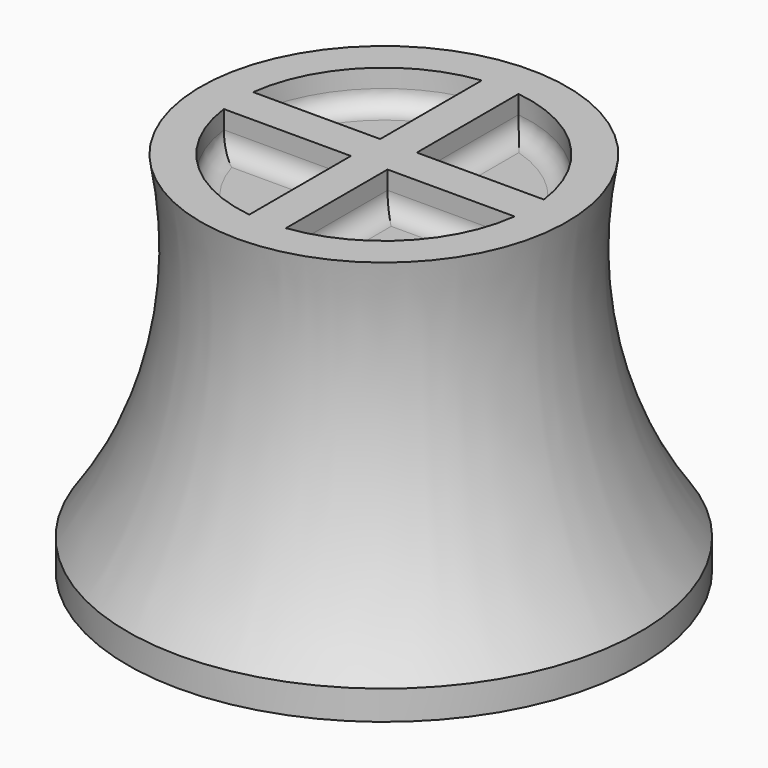
from build123d import *

# Parameters (mm, degrees)
F3_R     = 1.1
F4_DEPTH = 12
F6_DEPTH = 1.5
F7_R     = 0.75


with BuildPart() as f2:
    # F1 (on Right) → F2 (revolve)
    with BuildSketch(Plane.YZ):
        with BuildLine():
            Line((-10.5, 0), (0, 0))
            Line((0, 0), (0, 15))
            Line((0, 15), (-7.5, 15))
            ThreePointArc((-7.5, 15), (-7.5901042149, 7.7935009163), (-10.5, 1.2))
            Line((-10.5, 1.2), (-10.5, 0))
        make_face()
    revolve(axis=Axis((0, 0, 7.2620462293), (0, 0, -1)))

    # F3 (on face) → F4 (cut)
    with BuildSketch(Plane(origin=(0, 0, 0), x_dir=(1, 0, 0), z_dir=(0, 0, -1))):
        Circle(F3_R)
    extrude(amount=-F4_DEPTH, mode=Mode.SUBTRACT)

    # F5 (on face) → F6 (cut)
    with BuildSketch(Plane.XY.offset(15)):
        with BuildLine():
            Line((-0.75, 0.75), (-0.75, 5.9529404499))
            ThreePointArc((-0.75, 5.9529404499), (-4.2426406871, 4.2426406871), (-5.9529404499, 0.75))
            Line((-5.9529404499, 0.75), (-0.75, 0.75))
        make_face()
        with BuildLine():
            ThreePointArc((5.9529404499, 0.75), (4.2426406871, 4.2426406871), (0.75, 5.9529404499))
            Line((0.75, 5.9529404499), (0.75, 0.75))
            Line((0.75, 0.75), (5.9529404499, 0.75))
        make_face()
        with BuildLine():
            Line((-0.75, -0.75), (-5.9529404499, -0.75))
            ThreePointArc((-5.9529404499, -0.75), (-4.2426406871, -4.2426406871), (-0.75, -5.9529404499))
            Line((-0.75, -5.9529404499), (-0.75, -0.75))
        make_face()
        with BuildLine():
            Line((0.75, -0.75), (0.75, -5.9529404499))
            ThreePointArc((0.75, -5.9529404499), (4.2426406871, -4.2426406871), (5.9529404499, -0.75))
            Line((5.9529404499, -0.75), (0.75, -0.75))
        make_face()
    extrude(amount=-F6_DEPTH, mode=Mode.SUBTRACT)

    # F7
    f7_edges = [f2.edges().sort_by_distance(p)[0] for p in [
        (-3.35147, 0.75, 13.5),
        (-0.75, 3.35147, 13.5),
        (-4.242641, 4.242641, 13.5),
        (4.242641, 4.242641, 13.5),
        (0.75, 3.35147, 13.5),
        (3.35147, 0.75, 13.5),
        (3.35147, -0.75, 13.5),
        (0.75, -3.35147, 13.5),
        (4.242641, -4.242641, 13.5),
        (-0.75, -3.35147, 13.5),
        (-3.35147, -0.75, 13.5),
        (-4.242641, -4.242641, 13.5),
    ]]
    fillet(f7_edges, radius=F7_R)


solid = f2.part
